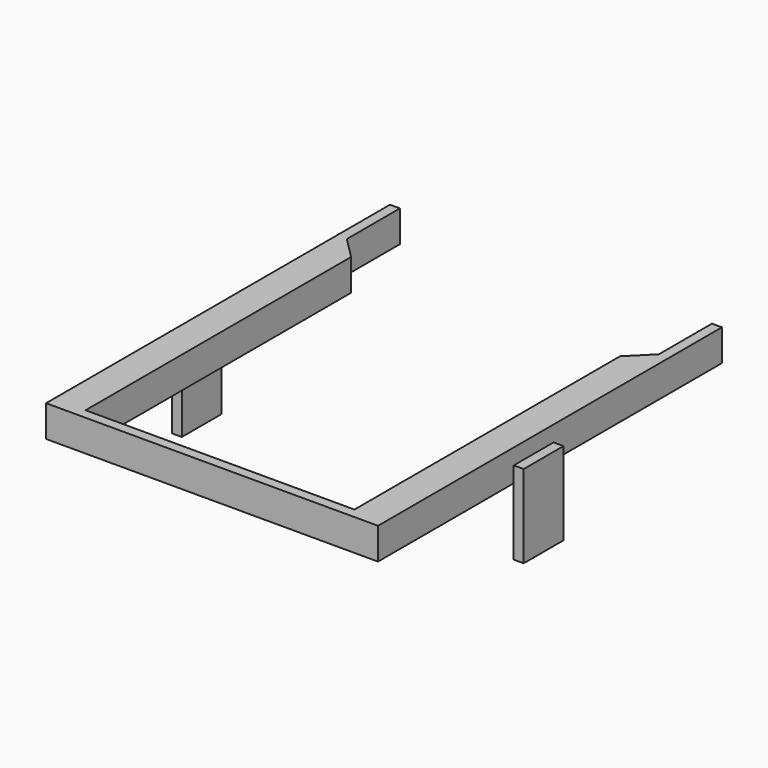
from build123d import *

# Parameters (mm, degrees)
F1_DEPTH      = 9.5
F1_DEPTH_BACK = 9.5
F0_W          = 6
F0_H          = 30
F2_DEPTH      = 50


with BuildPart() as f1:
    # F0 (on Top) → F1 (new body, two sides)
    with BuildSketch(Plane.XY) as f1_sk:
        Polygon((-94, -20), (-94, 20), (-100, 20), (-100, -106.8), (-100, -136.8), (-100, -239), (0, -239), (0, -233), (-81, -233), (-81, -33), align=None)
        Polygon((81, -233), (0, -233), (0, -239), (100, -239), (100, -136.8), (100, -106.8), (100, 20), (94, 20), (94, -20), (81, -33), align=None)
    extrude(amount=F1_DEPTH)
    extrude(f1_sk.sketch, amount=-F1_DEPTH_BACK)

    # F0 (on Top) → F2 (join)
    with BuildSketch(Plane.XY):
        with Locations((-103, -121.8)):
            Rectangle(F0_W, F0_H)
        with Locations((103, -121.8)):
            Rectangle(F0_W, F0_H)
    extrude(amount=-F2_DEPTH)


solid = f1.part
